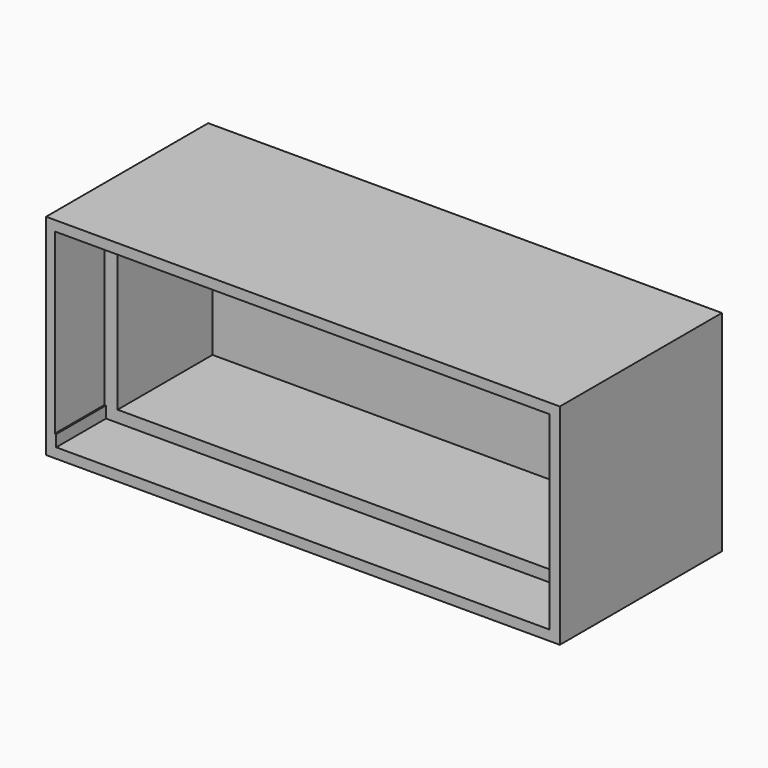
from build123d import *

# Parameters (mm, degrees)
F1_DEPTH = 23
F3_DEPTH = 3
F5_DEPTH = 1.6
F7_DEPTH = 3
F9_DEPTH = 1.6


with BuildPart() as f1:
    # F0 (on Top) → F1 (new body)
    with BuildSketch(Plane.XY):
        Polygon((-65, 25), (0, 25), (0, 8.6), (1.6, 8.6), (1.6, 0), (3, 0), (3, 28), (-68, 28), (-68, 0), (-66.8, 0), (-66.8, 8.6), (-65, 8.6), align=None)
    extrude(amount=F1_DEPTH)

    # F2 (on face) → F3 (join)
    with BuildSketch(Plane.XY.offset(23)):
        Polygon((3, 28), (-68, 28), (-68, 0), (-66.8, 0), (-66.8, 8.6), (-65, 8.6), (-65, 25), (0, 25), (0, 8.6), (1.6, 8.6), (1.6, 0), (3, 0), align=None)
        Polygon((-66.8, 8.6), (-66.8, 0), (1.6, 0), (1.6, 8.6), (0, 8.6), (0, 25), (-65, 25), (-65, 8.6), align=None)
    extrude(amount=F3_DEPTH)

    # F4 (on face) → F5 (cut)
    with BuildSketch(Plane(origin=(0, 0, 23), x_dir=(1, 0, 0), z_dir=(0, 0, -1))):
        Polygon((1.6, 0), (-66.8, 0), (-66.8, -8.6), (-65, -8.6), (0, -8.6), (1.6, -8.6), align=None)
    extrude(amount=-F5_DEPTH, mode=Mode.SUBTRACT)

    # F6 (on face) → F7 (join)
    with BuildSketch(Plane(origin=(0, 0, 0), x_dir=(1, 0, 0), z_dir=(0, 0, -1))):
        Polygon((-66.8, 0), (-68, 0), (-68, -28), (3, -28), (3, 0), (1.6, 0), (1.6, -8.6), (0, -8.6), (0, -25), (-65, -25), (-65, -8.6), (-66.8, -8.6), align=None)
        Polygon((1.6, 0), (-66.8, 0), (-66.8, -8.6), (-65, -8.6), (-65, -25), (0, -25), (0, -8.6), (1.6, -8.6), align=None)
    extrude(amount=F7_DEPTH)

    # F8 (on face) → F9 (cut)
    with BuildSketch(Plane.XY):
        Polygon((-65, 8.6), (-66.6, 8.6), (-66.6, 0), (1.6, 0), (1.6, 8.6), (0, 8.6), align=None)
    extrude(amount=-F9_DEPTH, mode=Mode.SUBTRACT)


solid = f1.part
